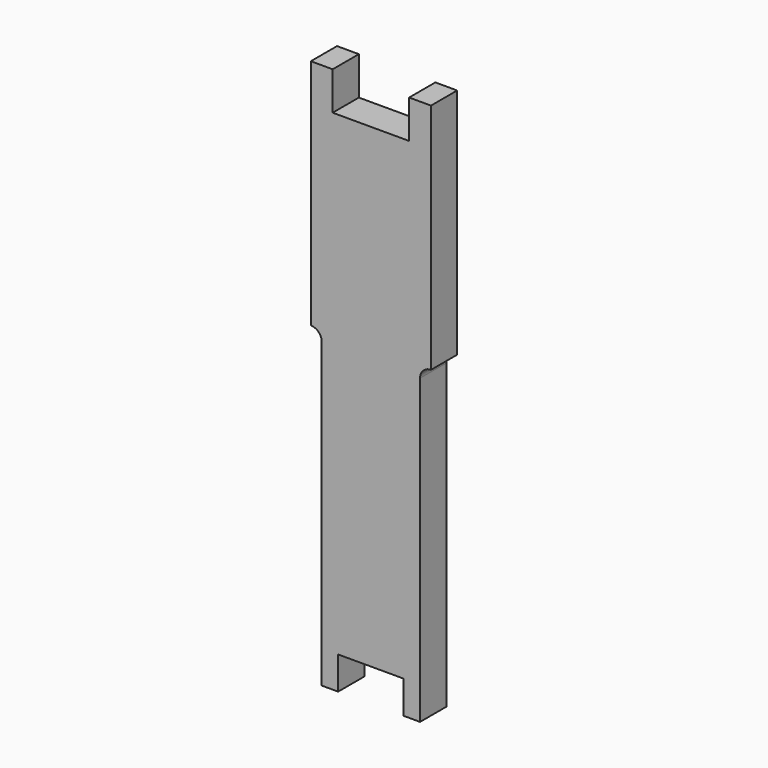
from build123d import *

# Parameters (mm, degrees)
F1_DEPTH = 9.525


with BuildPart() as f1:
    # F0 (on Front) → F1 (new body)
    with BuildSketch(Plane.XZ):
        with BuildLine():
            Line((-9.525, 0), (0, 0))
            Line((0, 0), (9.525, 0))
            Line((9.525, 0), (9.525, -9.525))
            Line((9.525, -9.525), (14.2875, -9.525))
            Line((14.2875, -9.525), (14.2875, 78.425297))
            ThreePointArc((14.2875, 78.425297), (15.217436, 80.670361), (17.4625, 81.600297))
            Line((17.4625, 81.600297), (17.4625, 149.225))
            Line((17.4625, 149.225), (11.1125, 149.225))
            Line((11.1125, 149.225), (11.1125, 138.1125))
            Line((11.1125, 138.1125), (0, 138.1125))
            Line((0, 138.1125), (-11.1125, 138.1125))
            Line((-11.1125, 138.1125), (-11.1125, 149.225))
            Line((-11.1125, 149.225), (-17.4625, 149.225))
            Line((-17.4625, 149.225), (-17.4625, 81.600297))
            ThreePointArc((-17.4625, 81.600297), (-15.217436, 80.670361), (-14.2875, 78.425297))
            Line((-14.2875, 78.425297), (-14.2875, -9.525))
            Line((-14.2875, -9.525), (-9.525, -9.525))
            Line((-9.525, -9.525), (-9.525, 0))
        make_face()
    extrude(amount=F1_DEPTH)


solid = f1.part
